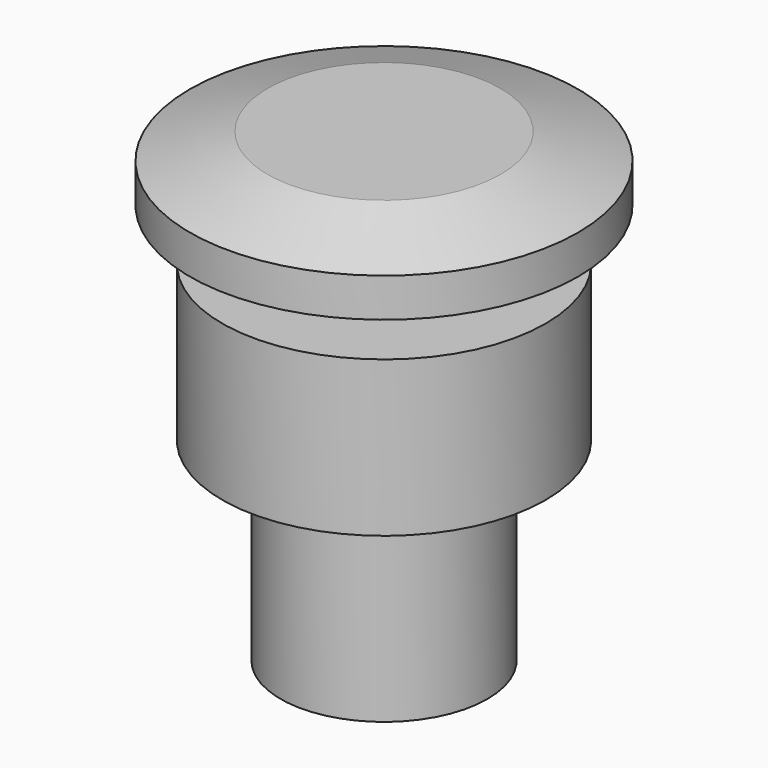
from build123d import *

# Parameters (mm, degrees)
F0_R     = 12.5
F1_DEPTH = 12
F2_R     = 8
F3_DEPTH = 15
F4_R     = 5
F5_DEPTH = 4
F6_R     = 15
F6_R_2   = 5
F7_DEPTH = 5
F8_SIZE2 = 2
F8_SIZE  = 6


with BuildPart() as f1:
    # F0 (on Top) → F1 (new body)
    with BuildSketch(Plane.XY):
        Circle(F0_R)
    extrude(amount=F1_DEPTH)

    # F2 (on face) → F3 (join)
    with BuildSketch(Plane(origin=(0, 0, 0), x_dir=(1, 0, 0), z_dir=(0, 0, -1))):
        Circle(F2_R)
    extrude(amount=F3_DEPTH)

    # F4 (on face) → F5 (join)
    with BuildSketch(Plane.XY.offset(12)):
        Circle(F4_R)
    extrude(amount=F5_DEPTH)

    # F6 (on face) → F7 (join)
    with BuildSketch(Plane.XY.offset(16)):
        Circle(F6_R)
        Circle(F6_R_2, mode=Mode.SUBTRACT)
        Circle(F6_R_2)
    extrude(amount=F7_DEPTH)

    # F8
    f8_edges = [f1.edges().sort_by_distance(p)[0] for p in [
        (-15, 0, 21),
    ]]
    f8_side = f1.faces().sort_by_distance((0, 0, 21))[0]
    chamfer(f8_edges, length=F8_SIZE, length2=F8_SIZE2, reference=f8_side)


solid = f1.part
